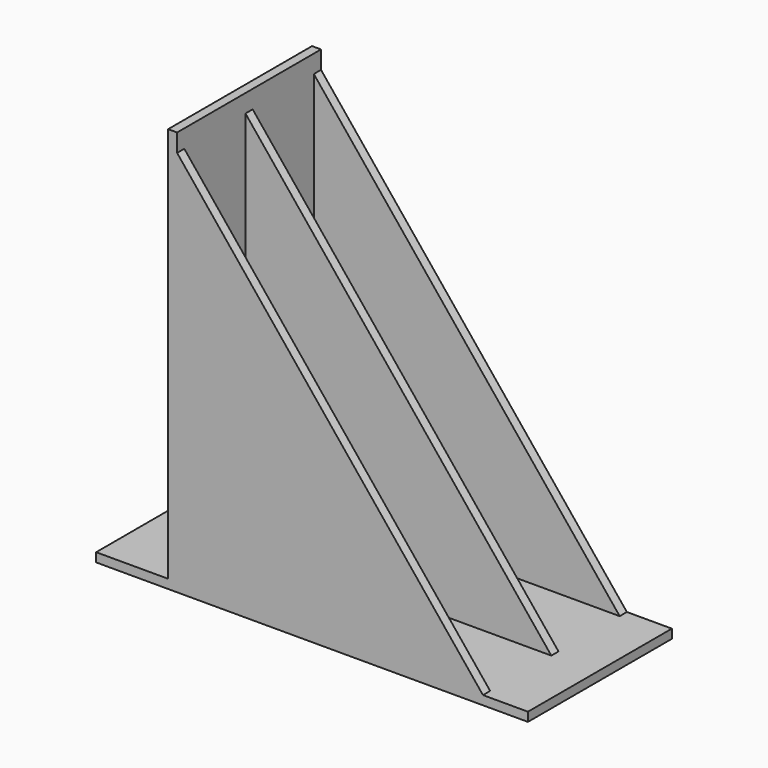
from build123d import *

# Parameters (mm, degrees)
SKETCH_W     = 48
SKETCH_H     = 20
PAD_DEPTH    = 1
PAD001_DEPTH = 44
POCKET_DEPTH = 20.001


with BuildPart() as part:
    # Sketch → Pad (new body)
    with BuildSketch(Plane.XY):
        Rectangle(SKETCH_W, SKETCH_H)
    extrude(amount=PAD_DEPTH)

    # Sketch001 → Pad001 (new body)
    with BuildSketch(Plane.XY.offset(1)):
        Polygon((-16, 10), (-16, -10), (19, -10), (19, -9), (-15, -9), (-15, -0.5), (19, -0.5), (19, 0.5), (-15, 0.5), (-15, 9), (19, 9), (19, 10), align=None)
    extrude(amount=PAD001_DEPTH)

    # Sketch002 → Pocket (cut, through all)
    with BuildSketch(Plane.XZ.offset(10)):
        Polygon((19, 1), (-15, 43), (-15, 46), (20, 46), (20, 1), align=None)
    extrude(amount=-POCKET_DEPTH, mode=Mode.SUBTRACT)


solid = part.part
